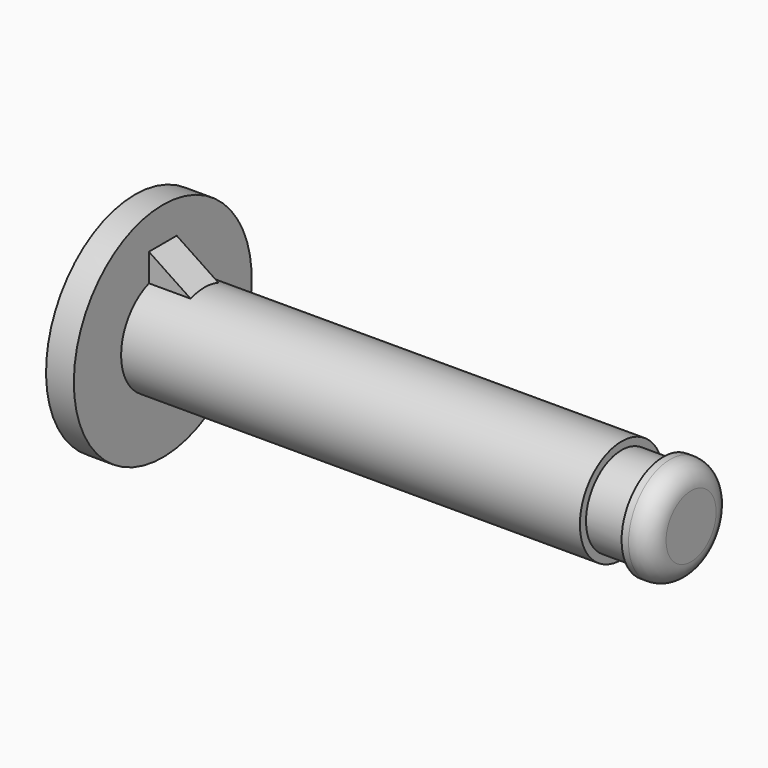
from build123d import *

# Parameters (mm, degrees)
F2_R     = 1.5
F4_DEPTH = 3
F6_DEPTH = 25


with BuildPart() as f1:
    # F0 (on Front) → F1 (revolve)
    with BuildSketch(Plane.XZ):
        Polygon((0, 8), (0, 0), (40, 0), (40, 3.75), (38, 3.75), (38, 3.2), (35, 3.2), (35, 3.75), (2, 3.75), (2, 8), align=None)
    revolve(axis=Axis((20, 0, 0), (1, 0, 0)))

    # F2
    f2_edges = [f1.edges().sort_by_distance(p)[0] for p in [
        (40, 0, -3.75),
    ]]
    fillet(f2_edges, radius=F2_R)

    # F3 (on face) → F4 (join)
    with BuildSketch(Plane.YZ.offset(2)):
        with BuildLine():
            Line((-1.25, 5.535534), (-1.25, 3.535534))
            ThreePointArc((-1.25, 3.535534), (0, 3.75), (1.25, 3.535534))
            Line((1.25, 3.535534), (1.25, 5.535534))
            Line((1.25, 5.535534), (-1.25, 5.535534))
        make_face()
    extrude(amount=F4_DEPTH)

    # F5 (on face) → F6 (cut)
    with BuildSketch(Plane(origin=(0, 1.25, 0), x_dir=(-1, 0, 0), z_dir=(0, 1, 0))):
        Polygon((-5, 3.535534), (-2, 5.535534), (-5, 5.535534), align=None)
    extrude(amount=-F6_DEPTH, mode=Mode.SUBTRACT)


solid = f1.part
